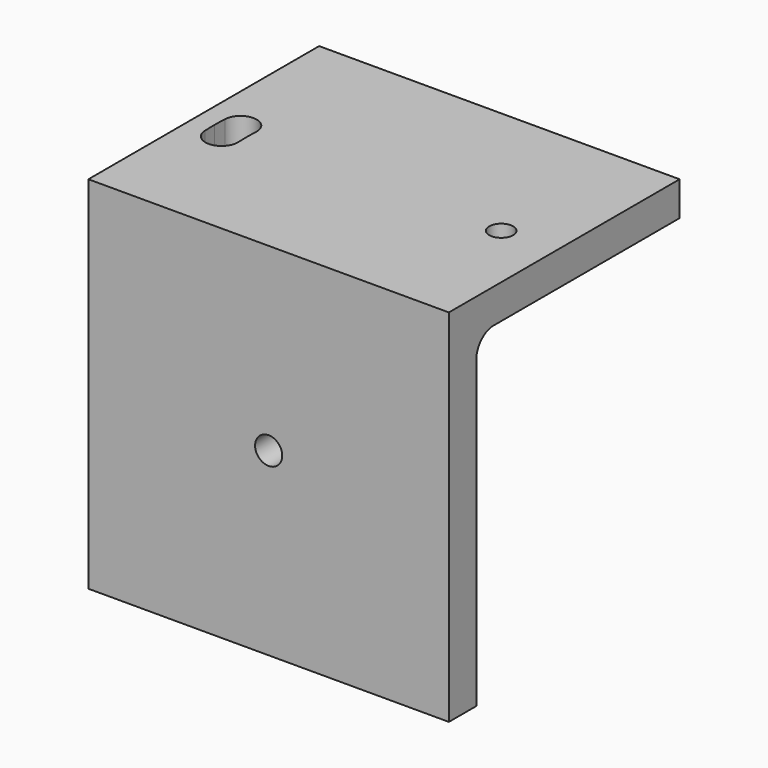
from build123d import *

# Parameters (mm, degrees)
F1_DEPTH = 100
F2_R     = 3.332982
F3_DEPTH = 25
F4_R     = 3.762858
F5_DEPTH = 25


with BuildPart() as f1:
    # F0 (on Right) → F1 (new body)
    with BuildSketch(Plane.YZ):
        with BuildLine():
            Line((80, 0), (0, 0))
            Line((0, 0), (0, -100))
            Line((0, -100), (9.5, -100))
            Line((9.5, -100), (9.5, -15.5))
            ThreePointArc((9.5, -15.5), (11.257359, -11.257359), (15.5, -9.5))
            Line((15.5, -9.5), (80, -9.5))
            Line((80, -9.5), (80, 0))
        make_face()
    extrude(amount=F1_DEPTH)

    # F2 (on face) → F3 (cut)
    with BuildSketch(Plane.XY):
        with Locations((84.909265, 36.999489)):
            Circle(F2_R)
        with BuildLine():
            ThreePointArc((5.484932, 33.531748), (10.176936, 29.232318), (14.476366, 33.924322))
            ThreePointArc((14.476366, 33.924322), (14.426042, 35.46154), (14.409265, 36.999489))
            ThreePointArc((14.409265, 36.999489), (14.426042, 38.537438), (14.476366, 40.074656))
            ThreePointArc((14.476366, 40.074656), (10.176936, 44.76666), (5.484932, 40.46723))
            ThreePointArc((5.484932, 40.46723), (5.428184, 38.733772), (5.409265, 36.999489))
            ThreePointArc((5.409265, 36.999489), (5.428184, 35.265206), (5.484932, 33.531748))
        make_face()
    extrude(amount=-F3_DEPTH, mode=Mode.SUBTRACT)

    # F4 (on face) → F5 (cut)
    with BuildSketch(Plane.XZ):
        with Locations((50, -50)):
            Circle(F4_R)
    extrude(amount=-F5_DEPTH, mode=Mode.SUBTRACT)


solid = f1.part
